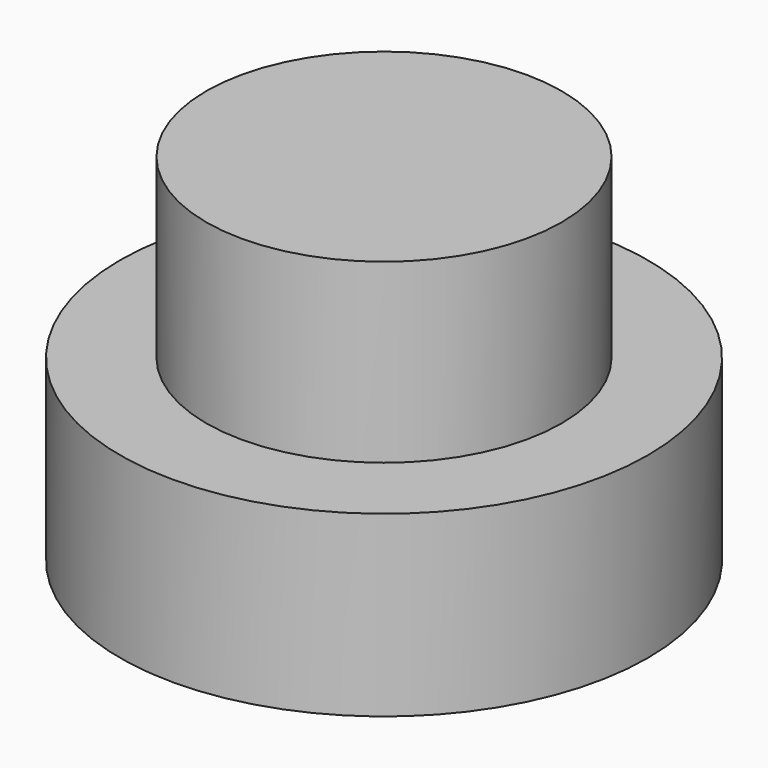
from build123d import *


with BuildPart() as part:
    # Sketch → Revolution (revolve)
    with BuildSketch(Plane.XZ):
        Polygon((0, 0), (-29.781878, 0), (-29.781878, 20.134235), (-20.050339, 20.134235), (-20.050339, 40.100677), (0, 40.100677), align=None)
    revolve(axis=Axis((0, 0, 0), (0, 0, 1)))


solid = part.part
